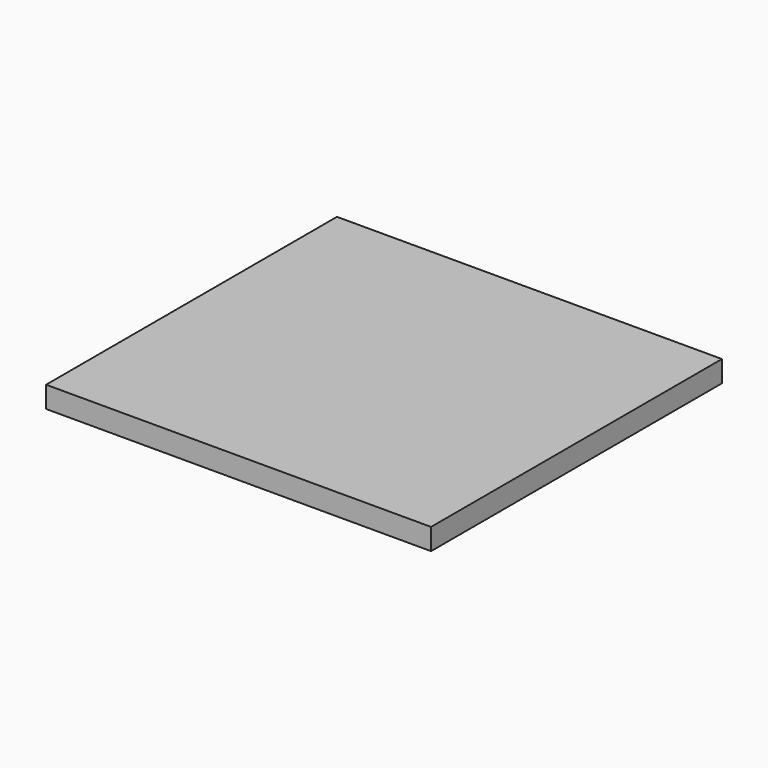
from build123d import *

# Parameters (mm, degrees)
SKETCH_W  = 180
SKETCH_H  = 170
PAD_DEPTH = 10


with BuildPart() as part:
    # Sketch → Pad (new body)
    with BuildSketch(Plane.XY):
        with Locations((-90, 85)):
            Rectangle(SKETCH_W, SKETCH_H)
    extrude(amount=PAD_DEPTH)


solid = part.part
